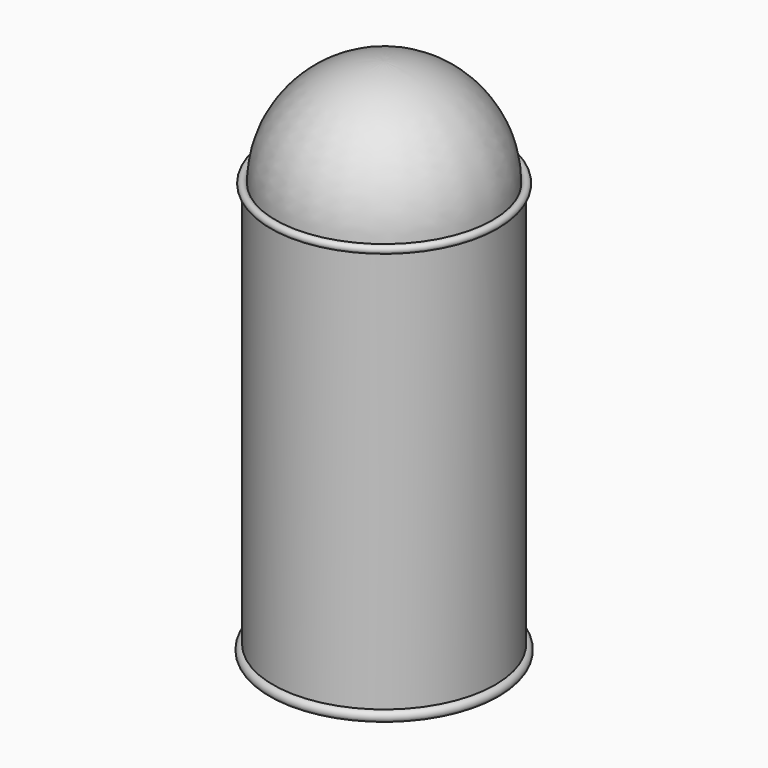
from build123d import *


with BuildPart() as f1:
    # F0 (on Front) → F1 (revolve)
    with BuildSketch(Plane.XZ):
        with BuildLine():
            Line((0, 91.47419), (0, 0))
            Line((0, 0), (23.586075, 0))
            ThreePointArc((23.586075, 0), (25.550732, -0.813787), (24.736945, 1.150869))
            Line((24.736945, 1.150869), (24.736945, 90.618191))
            ThreePointArc((24.736945, 90.618191), (25.342228, 92.079473), (23.880945, 91.47419))
            ThreePointArc((23.880945, 91.47419), (16.886378, 108.360568), (0, 115.355135))
            Line((0, 115.355135), (0, 91.47419))
        make_face()
    revolve(axis=Axis((0, 0, 45.737095), (0, 0, 1)))


solid = f1.part
